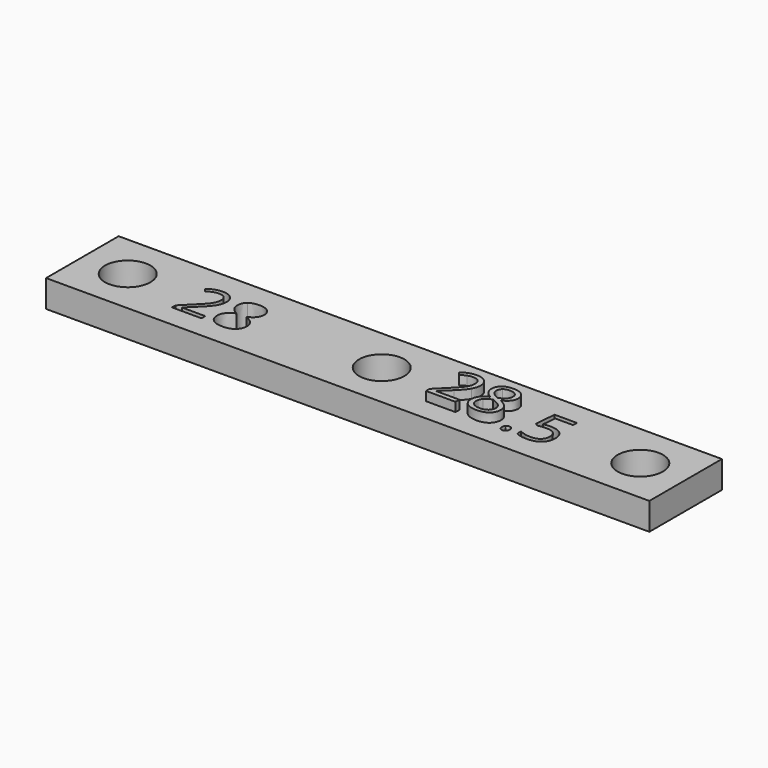
from build123d import *

# Parameters (mm, degrees)
F0_R     = 2.5
F1_DEPTH = 3
F2_DEPTH = 4


with BuildPart() as f1:
    # F0 (on Top) → F1 (new body)
    with BuildSketch(Plane.XY):
        Polygon((-33, 5), (-33, 0), (-33, -5), (33.5, -5), (33.5, 0), (33.5, 5), align=None)
        with BuildLine():
            add(Edge.make_bspline(
                [(-16.5777540152, 2.2081163194), (-16.1795335291, 2.5282118056), (-15.5111307514, 2.5282118056)],
                knots=[0, 0, 0, 1, 1, 1], degree=2))
            add(Edge.make_bspline(
                [(-15.5111307514, 2.5282118056), (-14.8329623486, 2.5282118056), (-14.4363694666, 2.2129991319)],
                knots=[0, 0, 0, 1, 1, 1], degree=2))
            add(Edge.make_bspline(
                [(-14.4363694666, 2.2129991319), (-14.0397765847, 1.8977864583), (-14.0397765847, 1.3422309028)],
                knots=[0, 0, 0, 1, 1, 1], degree=2))
            add(Edge.make_bspline(
                [(-14.0397765847, 1.3422309028), (-14.0397765847, 0.9754774306), (-14.2665560986, 0.673828125)],
                knots=[0, 0, 0, 1, 1, 1], degree=2))
            add(Edge.make_bspline(
                [(-14.2665560986, 0.673828125), (-14.4933356125, 0.3721788194), (-14.9924675569, 0.1247829861)],
                knots=[0, 0, 0, 1, 1, 1], degree=2))
            add(Edge.make_bspline(
                [(-14.9924675569, 0.1247829861), (-14.3891689458, -0.1638454861), (-14.1347201611, -0.4806857639)],
                knots=[0, 0, 0, 1, 1, 1], degree=2))
            add(Edge.make_bspline(
                [(-14.1347201611, -0.4806857639), (-13.8802713764, -0.7975260417), (-13.8802713764, -1.2152777778)],
                knots=[0, 0, 0, 1, 1, 1], degree=2))
            add(Edge.make_bspline(
                [(-13.8802713764, -1.2152777778), (-13.8802713764, -1.8315972222), (-14.3110439458, -2.1999782986)],
                knots=[0, 0, 0, 1, 1, 1], degree=2))
            add(Edge.make_bspline(
                [(-14.3110439458, -2.1999782986), (-14.7418165152, -2.568359375), (-15.4905144319, -2.568359375)],
                knots=[0, 0, 0, 1, 1, 1], degree=2))
            add(Edge.make_bspline(
                [(-15.4905144319, -2.568359375), (-16.2837001958, -2.568359375), (-16.7112175569, -2.2205946181)],
                knots=[0, 0, 0, 1, 1, 1], degree=2))
            add(Edge.make_bspline(
                [(-16.7112175569, -2.2205946181), (-17.138734918, -1.8728298611), (-17.138734918, -1.2348090278)],
                knots=[0, 0, 0, 1, 1, 1], degree=2))
            add(Edge.make_bspline(
                [(-17.138734918, -1.2348090278), (-17.138734918, -0.3841145833), (-16.1014085291, 0.0911458333)],
                knots=[0, 0, 0, 1, 1, 1], degree=2))
            add(Edge.make_bspline(
                [(-16.1014085291, 0.0911458333), (-16.5690734597, 0.3548177083), (-16.7725239805, 0.6618923611)],
                knots=[0, 0, 0, 1, 1, 1], degree=2))
            add(Edge.make_bspline(
                [(-16.7725239805, 0.6618923611), (-16.9759745014, 0.9689670139), (-16.9759745014, 1.3487413194)],
                knots=[0, 0, 0, 1, 1, 1], degree=2))
            add(Edge.make_bspline(
                [(-16.9759745014, 1.3487413194), (-16.9759745014, 1.8880208333), (-16.5777540152, 2.2081163194)],
                knots=[0, 0, 0, 1, 1, 1], degree=2))
        make_face(mode=Mode.SUBTRACT)
        with BuildLine():
            add(Edge.make_bspline(
                [(15.1076843528, -2.4918619792), (14.9942945959, -2.3849826389), (14.9942945959, -2.1408420139)],
                knots=[0, 0, 0, 1, 1, 1], degree=2))
            add(Edge.make_bspline(
                [(14.9942945959, -2.1408420139), (14.9942945959, -1.9129774306), (15.0979187278, -1.7963324653)],
                knots=[0, 0, 0, 1, 1, 1], degree=2))
            add(Edge.make_bspline(
                [(15.0979187278, -1.7963324653), (15.2015428598, -1.6796875), (15.3946852209, -1.6796875)],
                knots=[0, 0, 0, 1, 1, 1], degree=2))
            add(Edge.make_bspline(
                [(15.3946852209, -1.6796875), (15.5910827903, -1.6796875), (15.7012173389, -1.7963324653)],
                knots=[0, 0, 0, 1, 1, 1], degree=2))
            add(Edge.make_bspline(
                [(15.7012173389, -1.7963324653), (15.8113518875, -1.9129774306), (15.8113518875, -2.1408420139)],
                knots=[0, 0, 0, 1, 1, 1], degree=2))
            add(Edge.make_bspline(
                [(15.8113518875, -2.1408420139), (15.8113518875, -2.3611111111), (15.6995897348, -2.4799262153)],
                knots=[0, 0, 0, 1, 1, 1], degree=2))
            add(Edge.make_bspline(
                [(15.6995897348, -2.4799262153), (15.587827582, -2.5987413194), (15.3946852209, -2.5987413194)],
                knots=[0, 0, 0, 1, 1, 1], degree=2))
            add(Edge.make_bspline(
                [(15.3946852209, -2.5987413194), (15.2210741098, -2.5987413194), (15.1076843528, -2.4918619792)],
                knots=[0, 0, 0, 1, 1, 1], degree=2))
        make_face(mode=Mode.SUBTRACT)
        with BuildLine():
            add(Edge.make_bspline(
                [(11.4222459848, 2.2081163194), (11.8204664709, 2.5282118056), (12.4888692486, 2.5282118056)],
                knots=[0, 0, 0, 1, 1, 1], degree=2))
            add(Edge.make_bspline(
                [(12.4888692486, 2.5282118056), (13.1670376514, 2.5282118056), (13.5636305334, 2.2129991319)],
                knots=[0, 0, 0, 1, 1, 1], degree=2))
            add(Edge.make_bspline(
                [(13.5636305334, 2.2129991319), (13.9602234153, 1.8977864583), (13.9602234153, 1.3422309028)],
                knots=[0, 0, 0, 1, 1, 1], degree=2))
            add(Edge.make_bspline(
                [(13.9602234153, 1.3422309028), (13.9602234153, 0.9754774306), (13.7334439014, 0.673828125)],
                knots=[0, 0, 0, 1, 1, 1], degree=2))
            add(Edge.make_bspline(
                [(13.7334439014, 0.673828125), (13.5066643875, 0.3721788194), (13.0075324431, 0.1247829861)],
                knots=[0, 0, 0, 1, 1, 1], degree=2))
            add(Edge.make_bspline(
                [(13.0075324431, 0.1247829861), (13.6108310542, -0.1638454861), (13.8652798389, -0.4806857639)],
                knots=[0, 0, 0, 1, 1, 1], degree=2))
            add(Edge.make_bspline(
                [(13.8652798389, -0.4806857639), (14.1197286236, -0.7975260417), (14.1197286236, -1.2152777778)],
                knots=[0, 0, 0, 1, 1, 1], degree=2))
            add(Edge.make_bspline(
                [(14.1197286236, -1.2152777778), (14.1197286236, -1.8315972222), (13.6889560542, -2.1999782986)],
                knots=[0, 0, 0, 1, 1, 1], degree=2))
            add(Edge.make_bspline(
                [(13.6889560542, -2.1999782986), (13.2581834848, -2.568359375), (12.5094855681, -2.568359375)],
                knots=[0, 0, 0, 1, 1, 1], degree=2))
            add(Edge.make_bspline(
                [(12.5094855681, -2.568359375), (11.7162998042, -2.568359375), (11.2887824431, -2.2205946181)],
                knots=[0, 0, 0, 1, 1, 1], degree=2))
            add(Edge.make_bspline(
                [(11.2887824431, -2.2205946181), (10.861265082, -1.8728298611), (10.861265082, -1.2348090278)],
                knots=[0, 0, 0, 1, 1, 1], degree=2))
            add(Edge.make_bspline(
                [(10.861265082, -1.2348090278), (10.861265082, -0.3841145833), (11.8985914709, 0.0911458333)],
                knots=[0, 0, 0, 1, 1, 1], degree=2))
            add(Edge.make_bspline(
                [(11.8985914709, 0.0911458333), (11.4309265403, 0.3548177083), (11.2274760195, 0.6618923611)],
                knots=[0, 0, 0, 1, 1, 1], degree=2))
            add(Edge.make_bspline(
                [(11.2274760195, 0.6618923611), (11.0240254986, 0.9689670139), (11.0240254986, 1.3487413194)],
                knots=[0, 0, 0, 1, 1, 1], degree=2))
            add(Edge.make_bspline(
                [(11.0240254986, 1.3487413194), (11.0240254986, 1.8880208333), (11.4222459848, 2.2081163194)],
                knots=[0, 0, 0, 1, 1, 1], degree=2))
        make_face(mode=Mode.SUBTRACT)
        with BuildLine():
            add(Edge.make_bspline(
                [(17.4389560542, 0.4503038194), (17.8284959848, 0.5284288194), (18.2158657764, 0.5284288194)],
                knots=[0, 0, 0, 1, 1, 1], degree=2))
            add(Edge.make_bspline(
                [(18.2158657764, 0.5284288194), (18.9992859153, 0.5284288194), (19.4485046653, 0.1399739583)],
                knots=[0, 0, 0, 1, 1, 1], degree=2))
            add(Edge.make_bspline(
                [(19.4485046653, 0.1399739583), (19.8977234153, -0.2484809028), (19.8977234153, -0.9233940972)],
                knots=[0, 0, 0, 1, 1, 1], degree=2))
            add(Edge.make_bspline(
                [(19.8977234153, -0.9233940972), (19.8977234153, -1.6927083333), (19.4078145611, -2.1305338542)],
                knots=[0, 0, 0, 1, 1, 1], degree=2))
            add(Edge.make_bspline(
                [(19.4078145611, -2.1305338542), (18.917905707, -2.568359375), (18.0563605681, -2.568359375)],
                knots=[0, 0, 0, 1, 1, 1], degree=2))
            add(Edge.make_bspline(
                [(18.0563605681, -2.568359375), (17.218686957, -2.568359375), (16.7781487625, -2.3003472222)],
                knots=[0, 0, 0, 1, 1, 1], degree=2))
            Line((16.7781487625, -2.3003472222), (16.7781487625, -1.7578125))
            add(Edge.make_bspline(
                [(16.7781487625, -1.7578125), (17.0146939014, -1.9097222222), (17.3673414709, -1.9965277778)],
                knots=[0, 0, 0, 1, 1, 1], degree=2))
            add(Edge.make_bspline(
                [(17.3673414709, -1.9965277778), (17.7199890403, -2.0833333333), (18.0628709848, -2.0833333333)],
                knots=[0, 0, 0, 1, 1, 1], degree=2))
            add(Edge.make_bspline(
                [(18.0628709848, -2.0833333333), (18.6596591792, -2.0833333333), (18.990062825, -1.8017578125)],
                knots=[0, 0, 0, 1, 1, 1], degree=2))
            add(Edge.make_bspline(
                [(18.990062825, -1.8017578125), (19.3204664709, -1.5201822917), (19.3204664709, -0.9874131944)],
                knots=[0, 0, 0, 1, 1, 1], degree=2))
            add(Edge.make_bspline(
                [(19.3204664709, -0.9874131944), (19.3204664709, 0.0499131944), (18.0498501514, 0.0499131944)],
                knots=[0, 0, 0, 1, 1, 1], degree=2))
            add(Edge.make_bspline(
                [(18.0498501514, 0.0499131944), (17.7275845264, 0.0499131944), (17.1883050125, -0.048828125)],
                knots=[0, 0, 0, 1, 1, 1], degree=2))
            Line((17.1883050125, -0.048828125), (16.896421332, 0.1378038194))
            Line((16.896421332, 0.1378038194), (17.0830532764, 2.4576822917))
            Line((17.0830532764, 2.4576822917), (19.5483310542, 2.4576822917))
            Line((19.5483310542, 2.4576822917), (19.5483310542, 1.9390190972))
            Line((19.5483310542, 1.9390190972), (17.5648241098, 1.9390190972))
            Line((17.5648241098, 1.9390190972), (17.4389560542, 0.4503038194))
        make_face(mode=Mode.SUBTRACT)
        with Locations((-28, 0)):
            Circle(F0_R, mode=Mode.SUBTRACT)
        with BuildLine():
            Line((-17.8635613069, -1.9780815972), (-17.8635613069, -2.5))
            Line((-17.8635613069, -2.5), (-21.1220248486, -2.5))
            Line((-21.1220248486, -2.5), (-21.1220248486, -2.0149739583))
            Line((-21.1220248486, -2.0149739583), (-19.8166863069, -0.703125))
            add(Edge.make_bspline(
                [(-19.8166863069, -0.703125), (-19.2198981125, -0.0987413194), (-19.0300109597, 0.1589626736)],
                knots=[0, 0, 0, 1, 1, 1], degree=2))
            add(Edge.make_bspline(
                [(-19.0300109597, 0.1589626736), (-18.8401238069, 0.4166666667), (-18.7451802305, 0.6608072917)],
                knots=[0, 0, 0, 1, 1, 1], degree=2))
            add(Edge.make_bspline(
                [(-18.7451802305, 0.6608072917), (-18.6502366541, 0.9049479167), (-18.6502366541, 1.1859809028)],
                knots=[0, 0, 0, 1, 1, 1], degree=2))
            add(Edge.make_bspline(
                [(-18.6502366541, 1.1859809028), (-18.6502366541, 1.5831163194), (-18.8911220708, 1.8153211806)],
                knots=[0, 0, 0, 1, 1, 1], degree=2))
            add(Edge.make_bspline(
                [(-18.8911220708, 1.8153211806), (-19.1320074875, 2.0475260417), (-19.5595248486, 2.0475260417)],
                knots=[0, 0, 0, 1, 1, 1], degree=2))
            add(Edge.make_bspline(
                [(-19.5595248486, 2.0475260417), (-19.8676845708, 2.0475260417), (-20.1443772791, 1.9455295139)],
                knots=[0, 0, 0, 1, 1, 1], degree=2))
            add(Edge.make_bspline(
                [(-20.1443772791, 1.9455295139), (-20.4210699875, 1.8435329861), (-20.7596116541, 1.5755208333)],
                knots=[0, 0, 0, 1, 1, 1], degree=2))
            Line((-20.7596116541, 1.5755208333), (-21.0580057514, 1.9585503472))
            add(Edge.make_bspline(
                [(-21.0580057514, 1.9585503472), (-20.3733269319, 2.5282118056), (-19.5660352652, 2.5282118056)],
                knots=[0, 0, 0, 1, 1, 1], degree=2))
            add(Edge.make_bspline(
                [(-19.5660352652, 2.5282118056), (-18.867250543, 2.5282118056), (-18.4706576611, 2.1706814236)],
                knots=[0, 0, 0, 1, 1, 1], degree=2))
            add(Edge.make_bspline(
                [(-18.4706576611, 2.1706814236), (-18.0740647791, 1.8131510417), (-18.0740647791, 1.2098524306)],
                knots=[0, 0, 0, 1, 1, 1], degree=2))
            add(Edge.make_bspline(
                [(-18.0740647791, 1.2098524306), (-18.0740647791, 0.7378472222), (-18.3388217236, 0.2766927083)],
                knots=[0, 0, 0, 1, 1, 1], degree=2))
            add(Edge.make_bspline(
                [(-18.3388217236, 0.2766927083), (-18.603578668, -0.1844618056), (-19.3284050569, -0.8897569444)],
                knots=[0, 0, 0, 1, 1, 1], degree=2))
            Line((-19.3284050569, -0.8897569444), (-20.4134745014, -1.9509548611))
            Line((-20.4134745014, -1.9509548611), (-20.4134745014, -1.9780815972))
            Line((-20.4134745014, -1.9780815972), (-17.8635613069, -1.9780815972))
        make_face(mode=Mode.SUBTRACT)
        Circle(F0_R, mode=Mode.SUBTRACT)
        with BuildLine():
            Line((10.1364386931, -1.9780815972), (10.1364386931, -2.5))
            Line((10.1364386931, -2.5), (6.8779751514, -2.5))
            Line((6.8779751514, -2.5), (6.8779751514, -2.0149739583))
            Line((6.8779751514, -2.0149739583), (8.1833136931, -0.703125))
            add(Edge.make_bspline(
                [(8.1833136931, -0.703125), (8.7801018875, -0.0987413194), (8.9699890403, 0.1589626736)],
                knots=[0, 0, 0, 1, 1, 1], degree=2))
            add(Edge.make_bspline(
                [(8.9699890403, 0.1589626736), (9.1598761931, 0.4166666667), (9.2548197695, 0.6608072917)],
                knots=[0, 0, 0, 1, 1, 1], degree=2))
            add(Edge.make_bspline(
                [(9.2548197695, 0.6608072917), (9.3497633459, 0.9049479167), (9.3497633459, 1.1859809028)],
                knots=[0, 0, 0, 1, 1, 1], degree=2))
            add(Edge.make_bspline(
                [(9.3497633459, 1.1859809028), (9.3497633459, 1.5831163194), (9.1088779292, 1.8153211806)],
                knots=[0, 0, 0, 1, 1, 1], degree=2))
            add(Edge.make_bspline(
                [(9.1088779292, 1.8153211806), (8.8679925125, 2.0475260417), (8.4404751514, 2.0475260417)],
                knots=[0, 0, 0, 1, 1, 1], degree=2))
            add(Edge.make_bspline(
                [(8.4404751514, 2.0475260417), (8.1323154292, 2.0475260417), (7.8556227209, 1.9455295139)],
                knots=[0, 0, 0, 1, 1, 1], degree=2))
            add(Edge.make_bspline(
                [(7.8556227209, 1.9455295139), (7.5789300125, 1.8435329861), (7.2403883459, 1.5755208333)],
                knots=[0, 0, 0, 1, 1, 1], degree=2))
            Line((7.2403883459, 1.5755208333), (6.9419942486, 1.9585503472))
            add(Edge.make_bspline(
                [(6.9419942486, 1.9585503472), (7.6266730681, 2.5282118056), (8.4339647348, 2.5282118056)],
                knots=[0, 0, 0, 1, 1, 1], degree=2))
            add(Edge.make_bspline(
                [(8.4339647348, 2.5282118056), (9.132749457, 2.5282118056), (9.5293423389, 2.1706814236)],
                knots=[0, 0, 0, 1, 1, 1], degree=2))
            add(Edge.make_bspline(
                [(9.5293423389, 2.1706814236), (9.9259352209, 1.8131510417), (9.9259352209, 1.2098524306)],
                knots=[0, 0, 0, 1, 1, 1], degree=2))
            add(Edge.make_bspline(
                [(9.9259352209, 1.2098524306), (9.9259352209, 0.7378472222), (9.6611782764, 0.2766927083)],
                knots=[0, 0, 0, 1, 1, 1], degree=2))
            add(Edge.make_bspline(
                [(9.6611782764, 0.2766927083), (9.396421332, -0.1844618056), (8.6715949431, -0.8897569444)],
                knots=[0, 0, 0, 1, 1, 1], degree=2))
            Line((8.6715949431, -0.8897569444), (7.5865254986, -1.9509548611))
            Line((7.5865254986, -1.9509548611), (7.5865254986, -1.9780815972))
            Line((7.5865254986, -1.9780815972), (10.1364386931, -1.9780815972))
        make_face(mode=Mode.SUBTRACT)
        with Locations((28.5, 0)):
            Circle(F0_R, mode=Mode.SUBTRACT)
    extrude(amount=F1_DEPTH)

    # F0 (on Top) → F2 (join)
    with BuildSketch(Plane.XY):
        with BuildLine():
            Line((6.8779751514, -2.5), (10.1364386931, -2.5))
            Line((10.1364386931, -2.5), (10.1364386931, -1.9780815972))
            Line((10.1364386931, -1.9780815972), (7.5865254986, -1.9780815972))
            Line((7.5865254986, -1.9780815972), (7.5865254986, -1.9509548611))
            Line((7.5865254986, -1.9509548611), (8.6715949431, -0.8897569444))
            add(Edge.make_bspline(
                [(9.6611782764, 0.2766927083), (9.396421332, -0.1844618056), (8.6715949431, -0.8897569444)],
                knots=[0, 0, 0, 1, 1, 1], degree=2))
            add(Edge.make_bspline(
                [(9.9259352209, 1.2098524306), (9.9259352209, 0.7378472222), (9.6611782764, 0.2766927083)],
                knots=[0, 0, 0, 1, 1, 1], degree=2))
            add(Edge.make_bspline(
                [(9.5293423389, 2.1706814236), (9.9259352209, 1.8131510417), (9.9259352209, 1.2098524306)],
                knots=[0, 0, 0, 1, 1, 1], degree=2))
            add(Edge.make_bspline(
                [(8.4339647348, 2.5282118056), (9.132749457, 2.5282118056), (9.5293423389, 2.1706814236)],
                knots=[0, 0, 0, 1, 1, 1], degree=2))
            add(Edge.make_bspline(
                [(6.9419942486, 1.9585503472), (7.6266730681, 2.5282118056), (8.4339647348, 2.5282118056)],
                knots=[0, 0, 0, 1, 1, 1], degree=2))
            Line((6.9419942486, 1.9585503472), (7.2403883459, 1.5755208333))
            add(Edge.make_bspline(
                [(7.8556227209, 1.9455295139), (7.5789300125, 1.8435329861), (7.2403883459, 1.5755208333)],
                knots=[0, 0, 0, 1, 1, 1], degree=2))
            add(Edge.make_bspline(
                [(8.4404751514, 2.0475260417), (8.1323154292, 2.0475260417), (7.8556227209, 1.9455295139)],
                knots=[0, 0, 0, 1, 1, 1], degree=2))
            add(Edge.make_bspline(
                [(9.1088779292, 1.8153211806), (8.8679925125, 2.0475260417), (8.4404751514, 2.0475260417)],
                knots=[0, 0, 0, 1, 1, 1], degree=2))
            add(Edge.make_bspline(
                [(9.3497633459, 1.1859809028), (9.3497633459, 1.5831163194), (9.1088779292, 1.8153211806)],
                knots=[0, 0, 0, 1, 1, 1], degree=2))
            add(Edge.make_bspline(
                [(9.2548197695, 0.6608072917), (9.3497633459, 0.9049479167), (9.3497633459, 1.1859809028)],
                knots=[0, 0, 0, 1, 1, 1], degree=2))
            add(Edge.make_bspline(
                [(8.9699890403, 0.1589626736), (9.1598761931, 0.4166666667), (9.2548197695, 0.6608072917)],
                knots=[0, 0, 0, 1, 1, 1], degree=2))
            add(Edge.make_bspline(
                [(8.1833136931, -0.703125), (8.7801018875, -0.0987413194), (8.9699890403, 0.1589626736)],
                knots=[0, 0, 0, 1, 1, 1], degree=2))
            Line((8.1833136931, -0.703125), (6.8779751514, -2.0149739583))
            Line((6.8779751514, -2.0149739583), (6.8779751514, -2.5))
        make_face()
        with BuildLine():
            add(Edge.make_bspline(
                [(12.4888692486, 2.5282118056), (13.1670376514, 2.5282118056), (13.5636305334, 2.2129991319)],
                knots=[0, 0, 0, 1, 1, 1], degree=2))
            add(Edge.make_bspline(
                [(11.4222459848, 2.2081163194), (11.8204664709, 2.5282118056), (12.4888692486, 2.5282118056)],
                knots=[0, 0, 0, 1, 1, 1], degree=2))
            add(Edge.make_bspline(
                [(11.0240254986, 1.3487413194), (11.0240254986, 1.8880208333), (11.4222459848, 2.2081163194)],
                knots=[0, 0, 0, 1, 1, 1], degree=2))
            add(Edge.make_bspline(
                [(11.2274760195, 0.6618923611), (11.0240254986, 0.9689670139), (11.0240254986, 1.3487413194)],
                knots=[0, 0, 0, 1, 1, 1], degree=2))
            add(Edge.make_bspline(
                [(11.8985914709, 0.0911458333), (11.4309265403, 0.3548177083), (11.2274760195, 0.6618923611)],
                knots=[0, 0, 0, 1, 1, 1], degree=2))
            add(Edge.make_bspline(
                [(10.861265082, -1.2348090278), (10.861265082, -0.3841145833), (11.8985914709, 0.0911458333)],
                knots=[0, 0, 0, 1, 1, 1], degree=2))
            add(Edge.make_bspline(
                [(11.2887824431, -2.2205946181), (10.861265082, -1.8728298611), (10.861265082, -1.2348090278)],
                knots=[0, 0, 0, 1, 1, 1], degree=2))
            add(Edge.make_bspline(
                [(12.5094855681, -2.568359375), (11.7162998042, -2.568359375), (11.2887824431, -2.2205946181)],
                knots=[0, 0, 0, 1, 1, 1], degree=2))
            add(Edge.make_bspline(
                [(13.6889560542, -2.1999782986), (13.2581834848, -2.568359375), (12.5094855681, -2.568359375)],
                knots=[0, 0, 0, 1, 1, 1], degree=2))
            add(Edge.make_bspline(
                [(14.1197286236, -1.2152777778), (14.1197286236, -1.8315972222), (13.6889560542, -2.1999782986)],
                knots=[0, 0, 0, 1, 1, 1], degree=2))
            add(Edge.make_bspline(
                [(13.8652798389, -0.4806857639), (14.1197286236, -0.7975260417), (14.1197286236, -1.2152777778)],
                knots=[0, 0, 0, 1, 1, 1], degree=2))
            add(Edge.make_bspline(
                [(13.0075324431, 0.1247829861), (13.6108310542, -0.1638454861), (13.8652798389, -0.4806857639)],
                knots=[0, 0, 0, 1, 1, 1], degree=2))
            add(Edge.make_bspline(
                [(13.7334439014, 0.673828125), (13.5066643875, 0.3721788194), (13.0075324431, 0.1247829861)],
                knots=[0, 0, 0, 1, 1, 1], degree=2))
            add(Edge.make_bspline(
                [(13.9602234153, 1.3422309028), (13.9602234153, 0.9754774306), (13.7334439014, 0.673828125)],
                knots=[0, 0, 0, 1, 1, 1], degree=2))
            add(Edge.make_bspline(
                [(13.5636305334, 2.2129991319), (13.9602234153, 1.8977864583), (13.9602234153, 1.3422309028)],
                knots=[0, 0, 0, 1, 1, 1], degree=2))
        make_face()
        with BuildLine():
            add(Edge.make_bspline(
                [(11.417905707, -1.2489149306), (11.417905707, -1.6558159722), (11.7005662973, -1.8831380208)],
                knots=[0, 0, 0, 1, 1, 1], degree=2))
            add(Edge.make_bspline(
                [(11.6446852209, -0.6195746528), (11.417905707, -0.8821614583), (11.417905707, -1.2489149306)],
                knots=[0, 0, 0, 1, 1, 1], degree=2))
            add(Edge.make_bspline(
                [(12.3771070959, -0.1399739583), (11.8714647348, -0.3569878472), (11.6446852209, -0.6195746528)],
                knots=[0, 0, 0, 1, 1, 1], degree=2))
            add(Edge.make_bspline(
                [(13.2994161236, -0.6369357639), (13.0346591792, -0.380859375), (12.3771070959, -0.1399739583)],
                knots=[0, 0, 0, 1, 1, 1], degree=2))
            add(Edge.make_bspline(
                [(13.5641730681, -1.2217881944), (13.5641730681, -0.8930121528), (13.2994161236, -0.6369357639)],
                knots=[0, 0, 0, 1, 1, 1], degree=2))
            add(Edge.make_bspline(
                [(13.2825975473, -1.8728298611), (13.5641730681, -1.6351996528), (13.5641730681, -1.2217881944)],
                knots=[0, 0, 0, 1, 1, 1], degree=2))
            add(Edge.make_bspline(
                [(12.4953796653, -2.1104600694), (13.0010220264, -2.1104600694), (13.2825975473, -1.8728298611)],
                knots=[0, 0, 0, 1, 1, 1], degree=2))
            add(Edge.make_bspline(
                [(11.7005662973, -1.8831380208), (11.9832268875, -2.1104600694), (12.4953796653, -2.1104600694)],
                knots=[0, 0, 0, 1, 1, 1], degree=2))
        make_face(mode=Mode.SUBTRACT)
        with BuildLine():
            add(Edge.make_bspline(
                [(12.482358832, 2.0713975694), (12.0580966792, 2.0713975694), (11.8172112625, 1.8679470486)],
                knots=[0, 0, 0, 1, 1, 1], degree=2))
            add(Edge.make_bspline(
                [(13.1588996306, 1.8695746528), (12.9131314014, 2.0713975694), (12.482358832, 2.0713975694)],
                knots=[0, 0, 0, 1, 1, 1], degree=2))
            add(Edge.make_bspline(
                [(13.4046678598, 1.3248697917), (13.4046678598, 1.6677517361), (13.1588996306, 1.8695746528)],
                knots=[0, 0, 0, 1, 1, 1], degree=2))
            add(Edge.make_bspline(
                [(13.2028449431, 0.7790798611), (13.4046678598, 1.0134548611), (13.4046678598, 1.3248697917)],
                knots=[0, 0, 0, 1, 1, 1], degree=2))
            add(Edge.make_bspline(
                [(12.5159959848, 0.341796875), (13.0010220264, 0.5447048611), (13.2028449431, 0.7790798611)],
                knots=[0, 0, 0, 1, 1, 1], degree=2))
            add(Edge.make_bspline(
                [(11.7765211584, 0.7893880208), (11.9767164709, 0.5653211806), (12.5159959848, 0.341796875)],
                knots=[0, 0, 0, 1, 1, 1], degree=2))
            add(Edge.make_bspline(
                [(11.5763258459, 1.3248697917), (11.5763258459, 1.0134548611), (11.7765211584, 0.7893880208)],
                knots=[0, 0, 0, 1, 1, 1], degree=2))
            add(Edge.make_bspline(
                [(11.8172112625, 1.8679470486), (11.5763258459, 1.6644965278), (11.5763258459, 1.3248697917)],
                knots=[0, 0, 0, 1, 1, 1], degree=2))
        make_face(mode=Mode.SUBTRACT)
        with BuildLine():
            add(Edge.make_bspline(
                [(12.4888692486, 2.5282118056), (13.1670376514, 2.5282118056), (13.5636305334, 2.2129991319)],
                knots=[0, 0, 0, 1, 1, 1], degree=2))
            add(Edge.make_bspline(
                [(11.4222459848, 2.2081163194), (11.8204664709, 2.5282118056), (12.4888692486, 2.5282118056)],
                knots=[0, 0, 0, 1, 1, 1], degree=2))
            add(Edge.make_bspline(
                [(11.0240254986, 1.3487413194), (11.0240254986, 1.8880208333), (11.4222459848, 2.2081163194)],
                knots=[0, 0, 0, 1, 1, 1], degree=2))
            add(Edge.make_bspline(
                [(11.2274760195, 0.6618923611), (11.0240254986, 0.9689670139), (11.0240254986, 1.3487413194)],
                knots=[0, 0, 0, 1, 1, 1], degree=2))
            add(Edge.make_bspline(
                [(11.8985914709, 0.0911458333), (11.4309265403, 0.3548177083), (11.2274760195, 0.6618923611)],
                knots=[0, 0, 0, 1, 1, 1], degree=2))
            add(Edge.make_bspline(
                [(10.861265082, -1.2348090278), (10.861265082, -0.3841145833), (11.8985914709, 0.0911458333)],
                knots=[0, 0, 0, 1, 1, 1], degree=2))
            add(Edge.make_bspline(
                [(11.2887824431, -2.2205946181), (10.861265082, -1.8728298611), (10.861265082, -1.2348090278)],
                knots=[0, 0, 0, 1, 1, 1], degree=2))
            add(Edge.make_bspline(
                [(12.5094855681, -2.568359375), (11.7162998042, -2.568359375), (11.2887824431, -2.2205946181)],
                knots=[0, 0, 0, 1, 1, 1], degree=2))
            add(Edge.make_bspline(
                [(13.6889560542, -2.1999782986), (13.2581834848, -2.568359375), (12.5094855681, -2.568359375)],
                knots=[0, 0, 0, 1, 1, 1], degree=2))
            add(Edge.make_bspline(
                [(14.1197286236, -1.2152777778), (14.1197286236, -1.8315972222), (13.6889560542, -2.1999782986)],
                knots=[0, 0, 0, 1, 1, 1], degree=2))
            add(Edge.make_bspline(
                [(13.8652798389, -0.4806857639), (14.1197286236, -0.7975260417), (14.1197286236, -1.2152777778)],
                knots=[0, 0, 0, 1, 1, 1], degree=2))
            add(Edge.make_bspline(
                [(13.0075324431, 0.1247829861), (13.6108310542, -0.1638454861), (13.8652798389, -0.4806857639)],
                knots=[0, 0, 0, 1, 1, 1], degree=2))
            add(Edge.make_bspline(
                [(13.7334439014, 0.673828125), (13.5066643875, 0.3721788194), (13.0075324431, 0.1247829861)],
                knots=[0, 0, 0, 1, 1, 1], degree=2))
            add(Edge.make_bspline(
                [(13.9602234153, 1.3422309028), (13.9602234153, 0.9754774306), (13.7334439014, 0.673828125)],
                knots=[0, 0, 0, 1, 1, 1], degree=2))
            add(Edge.make_bspline(
                [(13.5636305334, 2.2129991319), (13.9602234153, 1.8977864583), (13.9602234153, 1.3422309028)],
                knots=[0, 0, 0, 1, 1, 1], degree=2))
        make_face()
        with BuildLine():
            add(Edge.make_bspline(
                [(11.417905707, -1.2489149306), (11.417905707, -1.6558159722), (11.7005662973, -1.8831380208)],
                knots=[0, 0, 0, 1, 1, 1], degree=2))
            add(Edge.make_bspline(
                [(11.6446852209, -0.6195746528), (11.417905707, -0.8821614583), (11.417905707, -1.2489149306)],
                knots=[0, 0, 0, 1, 1, 1], degree=2))
            add(Edge.make_bspline(
                [(12.3771070959, -0.1399739583), (11.8714647348, -0.3569878472), (11.6446852209, -0.6195746528)],
                knots=[0, 0, 0, 1, 1, 1], degree=2))
            add(Edge.make_bspline(
                [(13.2994161236, -0.6369357639), (13.0346591792, -0.380859375), (12.3771070959, -0.1399739583)],
                knots=[0, 0, 0, 1, 1, 1], degree=2))
            add(Edge.make_bspline(
                [(13.5641730681, -1.2217881944), (13.5641730681, -0.8930121528), (13.2994161236, -0.6369357639)],
                knots=[0, 0, 0, 1, 1, 1], degree=2))
            add(Edge.make_bspline(
                [(13.2825975473, -1.8728298611), (13.5641730681, -1.6351996528), (13.5641730681, -1.2217881944)],
                knots=[0, 0, 0, 1, 1, 1], degree=2))
            add(Edge.make_bspline(
                [(12.4953796653, -2.1104600694), (13.0010220264, -2.1104600694), (13.2825975473, -1.8728298611)],
                knots=[0, 0, 0, 1, 1, 1], degree=2))
            add(Edge.make_bspline(
                [(11.7005662973, -1.8831380208), (11.9832268875, -2.1104600694), (12.4953796653, -2.1104600694)],
                knots=[0, 0, 0, 1, 1, 1], degree=2))
        make_face(mode=Mode.SUBTRACT)
        with BuildLine():
            add(Edge.make_bspline(
                [(12.482358832, 2.0713975694), (12.0580966792, 2.0713975694), (11.8172112625, 1.8679470486)],
                knots=[0, 0, 0, 1, 1, 1], degree=2))
            add(Edge.make_bspline(
                [(13.1588996306, 1.8695746528), (12.9131314014, 2.0713975694), (12.482358832, 2.0713975694)],
                knots=[0, 0, 0, 1, 1, 1], degree=2))
            add(Edge.make_bspline(
                [(13.4046678598, 1.3248697917), (13.4046678598, 1.6677517361), (13.1588996306, 1.8695746528)],
                knots=[0, 0, 0, 1, 1, 1], degree=2))
            add(Edge.make_bspline(
                [(13.2028449431, 0.7790798611), (13.4046678598, 1.0134548611), (13.4046678598, 1.3248697917)],
                knots=[0, 0, 0, 1, 1, 1], degree=2))
            add(Edge.make_bspline(
                [(12.5159959848, 0.341796875), (13.0010220264, 0.5447048611), (13.2028449431, 0.7790798611)],
                knots=[0, 0, 0, 1, 1, 1], degree=2))
            add(Edge.make_bspline(
                [(11.7765211584, 0.7893880208), (11.9767164709, 0.5653211806), (12.5159959848, 0.341796875)],
                knots=[0, 0, 0, 1, 1, 1], degree=2))
            add(Edge.make_bspline(
                [(11.5763258459, 1.3248697917), (11.5763258459, 1.0134548611), (11.7765211584, 0.7893880208)],
                knots=[0, 0, 0, 1, 1, 1], degree=2))
            add(Edge.make_bspline(
                [(11.8172112625, 1.8679470486), (11.5763258459, 1.6644965278), (11.5763258459, 1.3248697917)],
                knots=[0, 0, 0, 1, 1, 1], degree=2))
        make_face(mode=Mode.SUBTRACT)
        with BuildLine():
            add(Edge.make_bspline(
                [(12.4888692486, 2.5282118056), (13.1670376514, 2.5282118056), (13.5636305334, 2.2129991319)],
                knots=[0, 0, 0, 1, 1, 1], degree=2))
            add(Edge.make_bspline(
                [(11.4222459848, 2.2081163194), (11.8204664709, 2.5282118056), (12.4888692486, 2.5282118056)],
                knots=[0, 0, 0, 1, 1, 1], degree=2))
            add(Edge.make_bspline(
                [(11.0240254986, 1.3487413194), (11.0240254986, 1.8880208333), (11.4222459848, 2.2081163194)],
                knots=[0, 0, 0, 1, 1, 1], degree=2))
            add(Edge.make_bspline(
                [(11.2274760195, 0.6618923611), (11.0240254986, 0.9689670139), (11.0240254986, 1.3487413194)],
                knots=[0, 0, 0, 1, 1, 1], degree=2))
            add(Edge.make_bspline(
                [(11.8985914709, 0.0911458333), (11.4309265403, 0.3548177083), (11.2274760195, 0.6618923611)],
                knots=[0, 0, 0, 1, 1, 1], degree=2))
            add(Edge.make_bspline(
                [(10.861265082, -1.2348090278), (10.861265082, -0.3841145833), (11.8985914709, 0.0911458333)],
                knots=[0, 0, 0, 1, 1, 1], degree=2))
            add(Edge.make_bspline(
                [(11.2887824431, -2.2205946181), (10.861265082, -1.8728298611), (10.861265082, -1.2348090278)],
                knots=[0, 0, 0, 1, 1, 1], degree=2))
            add(Edge.make_bspline(
                [(12.5094855681, -2.568359375), (11.7162998042, -2.568359375), (11.2887824431, -2.2205946181)],
                knots=[0, 0, 0, 1, 1, 1], degree=2))
            add(Edge.make_bspline(
                [(13.6889560542, -2.1999782986), (13.2581834848, -2.568359375), (12.5094855681, -2.568359375)],
                knots=[0, 0, 0, 1, 1, 1], degree=2))
            add(Edge.make_bspline(
                [(14.1197286236, -1.2152777778), (14.1197286236, -1.8315972222), (13.6889560542, -2.1999782986)],
                knots=[0, 0, 0, 1, 1, 1], degree=2))
            add(Edge.make_bspline(
                [(13.8652798389, -0.4806857639), (14.1197286236, -0.7975260417), (14.1197286236, -1.2152777778)],
                knots=[0, 0, 0, 1, 1, 1], degree=2))
            add(Edge.make_bspline(
                [(13.0075324431, 0.1247829861), (13.6108310542, -0.1638454861), (13.8652798389, -0.4806857639)],
                knots=[0, 0, 0, 1, 1, 1], degree=2))
            add(Edge.make_bspline(
                [(13.7334439014, 0.673828125), (13.5066643875, 0.3721788194), (13.0075324431, 0.1247829861)],
                knots=[0, 0, 0, 1, 1, 1], degree=2))
            add(Edge.make_bspline(
                [(13.9602234153, 1.3422309028), (13.9602234153, 0.9754774306), (13.7334439014, 0.673828125)],
                knots=[0, 0, 0, 1, 1, 1], degree=2))
            add(Edge.make_bspline(
                [(13.5636305334, 2.2129991319), (13.9602234153, 1.8977864583), (13.9602234153, 1.3422309028)],
                knots=[0, 0, 0, 1, 1, 1], degree=2))
        make_face()
        with BuildLine():
            add(Edge.make_bspline(
                [(11.417905707, -1.2489149306), (11.417905707, -1.6558159722), (11.7005662973, -1.8831380208)],
                knots=[0, 0, 0, 1, 1, 1], degree=2))
            add(Edge.make_bspline(
                [(11.6446852209, -0.6195746528), (11.417905707, -0.8821614583), (11.417905707, -1.2489149306)],
                knots=[0, 0, 0, 1, 1, 1], degree=2))
            add(Edge.make_bspline(
                [(12.3771070959, -0.1399739583), (11.8714647348, -0.3569878472), (11.6446852209, -0.6195746528)],
                knots=[0, 0, 0, 1, 1, 1], degree=2))
            add(Edge.make_bspline(
                [(13.2994161236, -0.6369357639), (13.0346591792, -0.380859375), (12.3771070959, -0.1399739583)],
                knots=[0, 0, 0, 1, 1, 1], degree=2))
            add(Edge.make_bspline(
                [(13.5641730681, -1.2217881944), (13.5641730681, -0.8930121528), (13.2994161236, -0.6369357639)],
                knots=[0, 0, 0, 1, 1, 1], degree=2))
            add(Edge.make_bspline(
                [(13.2825975473, -1.8728298611), (13.5641730681, -1.6351996528), (13.5641730681, -1.2217881944)],
                knots=[0, 0, 0, 1, 1, 1], degree=2))
            add(Edge.make_bspline(
                [(12.4953796653, -2.1104600694), (13.0010220264, -2.1104600694), (13.2825975473, -1.8728298611)],
                knots=[0, 0, 0, 1, 1, 1], degree=2))
            add(Edge.make_bspline(
                [(11.7005662973, -1.8831380208), (11.9832268875, -2.1104600694), (12.4953796653, -2.1104600694)],
                knots=[0, 0, 0, 1, 1, 1], degree=2))
        make_face(mode=Mode.SUBTRACT)
        with BuildLine():
            add(Edge.make_bspline(
                [(12.482358832, 2.0713975694), (12.0580966792, 2.0713975694), (11.8172112625, 1.8679470486)],
                knots=[0, 0, 0, 1, 1, 1], degree=2))
            add(Edge.make_bspline(
                [(13.1588996306, 1.8695746528), (12.9131314014, 2.0713975694), (12.482358832, 2.0713975694)],
                knots=[0, 0, 0, 1, 1, 1], degree=2))
            add(Edge.make_bspline(
                [(13.4046678598, 1.3248697917), (13.4046678598, 1.6677517361), (13.1588996306, 1.8695746528)],
                knots=[0, 0, 0, 1, 1, 1], degree=2))
            add(Edge.make_bspline(
                [(13.2028449431, 0.7790798611), (13.4046678598, 1.0134548611), (13.4046678598, 1.3248697917)],
                knots=[0, 0, 0, 1, 1, 1], degree=2))
            add(Edge.make_bspline(
                [(12.5159959848, 0.341796875), (13.0010220264, 0.5447048611), (13.2028449431, 0.7790798611)],
                knots=[0, 0, 0, 1, 1, 1], degree=2))
            add(Edge.make_bspline(
                [(11.7765211584, 0.7893880208), (11.9767164709, 0.5653211806), (12.5159959848, 0.341796875)],
                knots=[0, 0, 0, 1, 1, 1], degree=2))
            add(Edge.make_bspline(
                [(11.5763258459, 1.3248697917), (11.5763258459, 1.0134548611), (11.7765211584, 0.7893880208)],
                knots=[0, 0, 0, 1, 1, 1], degree=2))
            add(Edge.make_bspline(
                [(11.8172112625, 1.8679470486), (11.5763258459, 1.6644965278), (11.5763258459, 1.3248697917)],
                knots=[0, 0, 0, 1, 1, 1], degree=2))
        make_face(mode=Mode.SUBTRACT)
    extrude(amount=F2_DEPTH)


solid = f1.part
